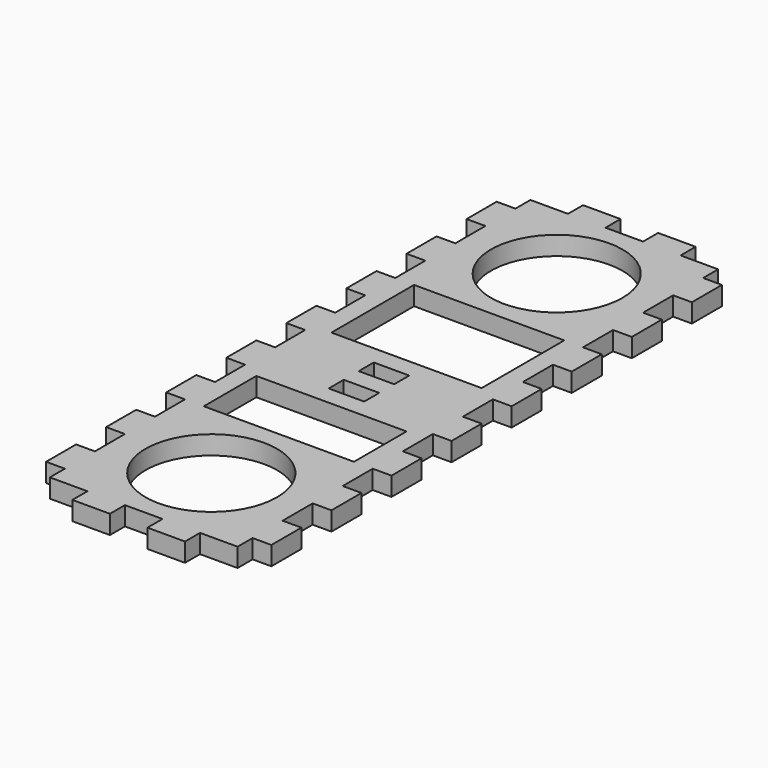
from build123d import *

# Parameters (mm, degrees)
F0_W     = 38.1
F0_H     = 107.95
F0_R     = 11.1125
F1_DEPTH = 3.175
F2_W     = 3.175
F2_H     = 6.35
F2_H_2   = 3.175
F2_W_2   = 25.4
F2_H_3   = 17.4625
F2_W_3   = 6
F2_H_4   = 11.1125
F3_DEPTH = 3.175
F4_W     = 6.35
F4_H     = 3.175
F5_DEPTH = 3.175


with BuildPart() as f1:
    # F0 (on Top) → F1 (new body)
    with BuildSketch(Plane.XY):
        with Locations((19.05, -53.975)):
            Rectangle(F0_W, F0_H)
        with Locations((19.05, -90.4875)):
            Circle(F0_R, mode=Mode.SUBTRACT)
        with Locations((19.05, -17.4625)):
            Circle(F0_R, mode=Mode.SUBTRACT)
    extrude(amount=F1_DEPTH)

    # F2 (on face) → F3 (cut, through all)
    with BuildSketch(Plane.XY.offset(3.175)):
        with Locations((36.5125, -3.175)):
            Rectangle(F2_W, F2_H)
        with Locations((1.5875, -3.175)):
            Rectangle(F2_W, F2_H)
        with Locations((1.5875, -15.875)):
            Rectangle(F2_W, F2_H)
        with Locations((36.5125, -15.875)):
            Rectangle(F2_W, F2_H)
        with Locations((36.5125, -28.575)):
            Rectangle(F2_W, F2_H)
        with Locations((36.5125, -41.275)):
            Rectangle(F2_W, F2_H)
        Polygon((22.05, -55.5625), (22.05, -53.975), (22.05, -52.3875), (16.05, -52.3875), (16.05, -55.5625), align=None)
        with Locations((36.5125, -52.3875)):
            Rectangle(F2_W, F2_H_2)
        with Locations((36.5125, -55.5625)):
            Rectangle(F2_W, F2_H_2)
        with Locations((36.5125, -66.675)):
            Rectangle(F2_W, F2_H)
        with Locations((36.5125, -79.375)):
            Rectangle(F2_W, F2_H)
        with Locations((36.5125, -92.075)):
            Rectangle(F2_W, F2_H)
        with Locations((36.5125, -104.775)):
            Rectangle(F2_W, F2_H)
        with Locations((36.5125, -117.475)):
            Rectangle(F2_W, F2_H)
        with Locations((36.5125, -130.175)):
            Rectangle(F2_W, F2_H)
        with Locations((1.5875, -28.575)):
            Rectangle(F2_W, F2_H)
        with Locations((1.5875, -41.275)):
            Rectangle(F2_W, F2_H)
        with Locations((1.5875, -53.975)):
            Rectangle(F2_W, F2_H)
        with Locations((1.5875, -66.675)):
            Rectangle(F2_W, F2_H)
        with Locations((1.5875, -79.375)):
            Rectangle(F2_W, F2_H)
        with Locations((1.5875, -92.075)):
            Rectangle(F2_W, F2_H)
        with Locations((1.5875, -104.775)):
            Rectangle(F2_W, F2_H)
        with Locations((1.5875, -117.475)):
            Rectangle(F2_W, F2_H)
        with Locations((1.5875, -130.175)):
            Rectangle(F2_W, F2_H)
        with Locations((19.05, -40.48125)):
            Rectangle(F2_W_2, F2_H_3)
        with Locations((19.05, -60.325)):
            Rectangle(F2_W_3, F2_H_2)
        with Locations((19.05, -70.64375)):
            Rectangle(F2_W_2, F2_H_4)
    extrude(amount=-F3_DEPTH, mode=Mode.SUBTRACT)

    # F4 (on face) → F5 (cut, through all)
    with BuildSketch(Plane.XY.offset(3.175)):
        with Locations((19.05, -1.5875)):
            Rectangle(F4_W, F4_H)
        with Locations((31.75, -1.5875)):
            Rectangle(F4_W, F4_H)
        with Locations((6.35, -1.5875)):
            Rectangle(F4_W, F4_H)
        with Locations((31.75, -106.3625)):
            Rectangle(F4_W, F4_H)
        with Locations((6.35, -106.3625)):
            Rectangle(F4_W, F4_H)
        with Locations((19.05, -106.3625)):
            Rectangle(F4_W, F4_H)
    extrude(amount=-F5_DEPTH, mode=Mode.SUBTRACT)


solid = f1.part
